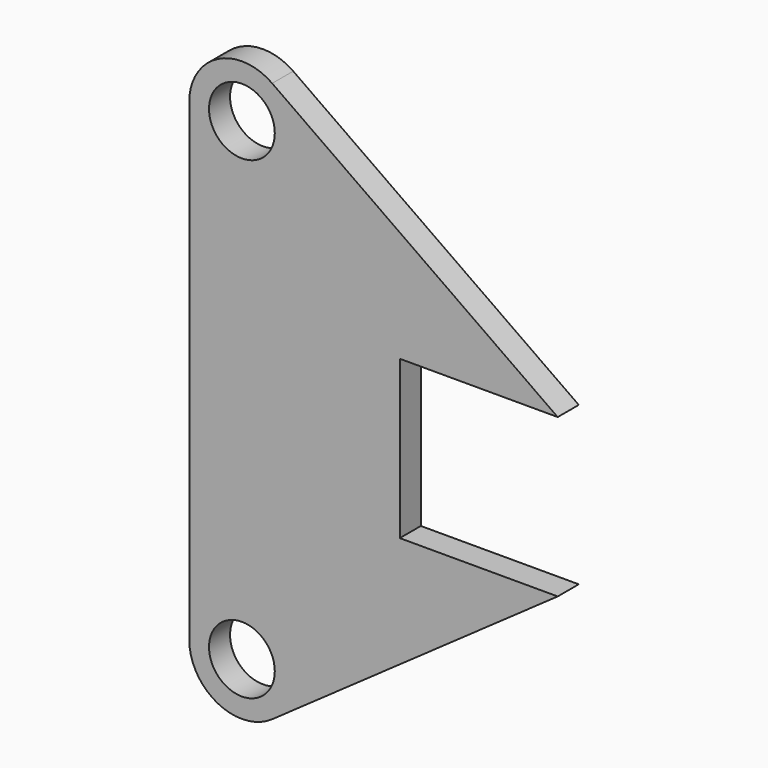
from build123d import *

# Parameters (mm, degrees)
F0_R     = 7.9375
F1_DEPTH = 6.35


with BuildPart() as f1:
    # F0 (on Front) → F1 (new body)
    with BuildSketch(Plane.XZ):
        with BuildLine():
            ThreePointArc((-12.7, 0), (0, -12.7), (12.7, 0))
            ThreePointArc((12.7, 0), (11.272099, 5.850622), (7.309485, 10.385636))
            ThreePointArc((7.309485, 10.385636), (-5.850622, 11.272099), (-12.7, 0))
        make_face()
        Circle(F0_R, mode=Mode.SUBTRACT)
        with BuildLine():
            ThreePointArc((7.309485, 10.385636), (11.272099, 5.850622), (12.7, 0))
            ThreePointArc((12.7, 0), (0, -12.7), (-12.7, 0))
            Line((-12.7, 0), (-12.7, -114.3))
            ThreePointArc((-12.7, -114.3), (0, -101.6), (12.7, -114.3))
            ThreePointArc((12.7, -114.3), (11.2721, -120.150622), (7.309485, -124.685636))
            Line((7.309485, -124.685636), (76.2, -76.199999))
            Line((76.2, -76.199999), (38.1, -76.199999))
            Line((38.1, -76.199999), (38.1, -38.099999))
            Line((38.1, -38.099999), (76.2, -38.099999))
            Line((76.2, -38.099999), (7.309485, 10.385636))
        make_face()
        with BuildLine():
            ThreePointArc((12.7, -114.3), (0, -101.6), (-12.7, -114.3))
            ThreePointArc((-12.7, -114.3), (-5.850622, -125.5721), (7.309485, -124.685636))
            ThreePointArc((7.309485, -124.685636), (11.2721, -120.150622), (12.7, -114.3))
        make_face()
        with Locations((0, -114.3)):
            Circle(F0_R, mode=Mode.SUBTRACT)
    extrude(amount=F1_DEPTH)


solid = f1.part
